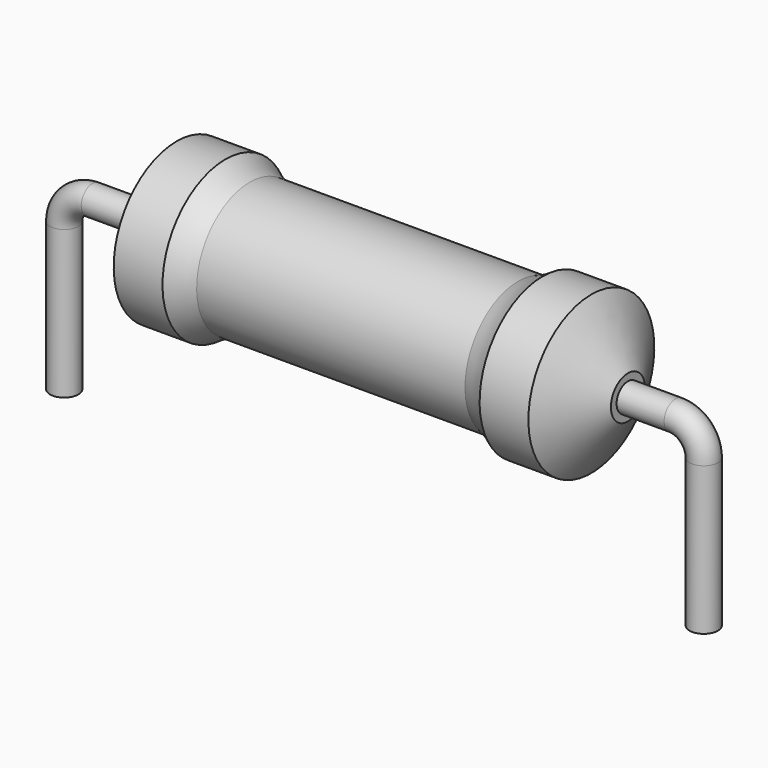
from build123d import *

# Parameters (mm, degrees)
SKETCH_R = 0.45


with BuildPart() as revolution:
    # Sketch002 → Revolution (revolve)
    with BuildSketch(Plane.XZ):
        with BuildLine():
            Line((3.5725, 5.1), (5.1225, 5.1))
            ThreePointArc((5.1225, 5.1), (5.493965, 4.87418), (5.8975, 4.7125))
            Line((5.8975, 4.7125), (14.4225, 4.7125))
            ThreePointArc((14.4225, 4.7125), (14.826035, 4.87418), (15.1975, 5.1))
            Line((15.1975, 5.1), (16.7475, 5.1))
            ThreePointArc((17.91, 3.275), (17.331405, 4.189191), (16.7475, 5.1))
            Line((17.91, 2.6), (17.91, 3.275))
            Line((2.41, 2.6), (17.91, 2.6))
            Line((2.41, 2.6), (2.41, 3.275))
            ThreePointArc((3.5725, 5.1), (2.988595, 4.189191), (2.41, 3.275))
        make_face()
    revolve(axis=Axis((2.41, 0, 2.6), (1, 0, 0)))


with BuildPart() as sweep_body:
    # Sweep: sweep along a path in Sketch001
    with BuildLine(Plane.XZ) as sweep_path:
        Line((0, -3), (0, 1.7))
        ThreePointArc((0, 1.7), (0.263601, 2.336393), (0.899991, 2.6))
        Line((0.899991, 2.6), (19.42, 2.6))
        ThreePointArc((19.42, 2.6), (20.056396, 2.336396), (20.32, 1.7))
        Line((20.32, 1.7), (20.32, -3))
    # Sketch → Sweep (sweep)
    with BuildSketch(Plane.XY.offset(-2)):
        Circle(SKETCH_R)
    sweep(path=sweep_path.line)


solid = Compound([revolution.part, sweep_body.part])
